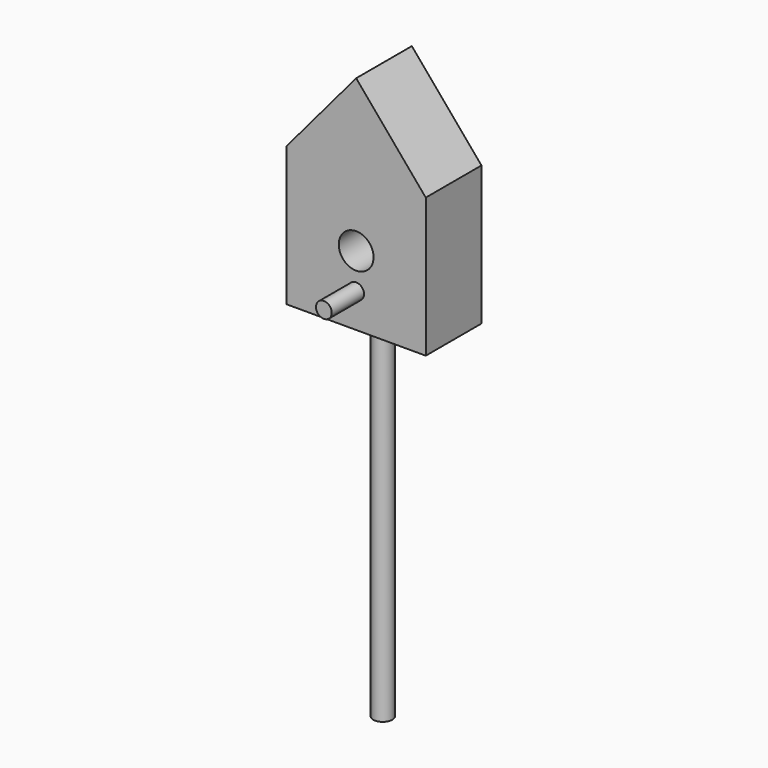
from build123d import *

# Parameters (mm, degrees)
F0_R     = 6.35
F1_DEPTH = 25.4
F2_R     = 2.87548
F3_DEPTH = 14.732
F4_R     = 3.475255
F5_DEPTH = 129.032


with BuildPart() as f1:
    # F0 (on Front) → F1 (new body)
    with BuildSketch(Plane.XZ):
        Polygon((-25.4, -25.4), (25.4, -25.4), (25.4, 25.4), (0, 55.480507), (-25.4, 25.4), align=None)
        Circle(F0_R, mode=Mode.SUBTRACT)
    extrude(amount=F1_DEPTH)

    # F2 (on face) → F3 (join)
    with BuildSketch(Plane.XZ.offset(25.4)):
        with Locations((0, -12.954)):
            Circle(F2_R)
    extrude(amount=F3_DEPTH)

    # F4 (on face) → F5 (join)
    with BuildSketch(Plane(origin=(0, 0, -25.4), x_dir=(1, 0, 0), z_dir=(0, 0, -1))):
        with Locations((0, 13.2588)):
            Circle(F4_R)
    extrude(amount=F5_DEPTH)


solid = f1.part
